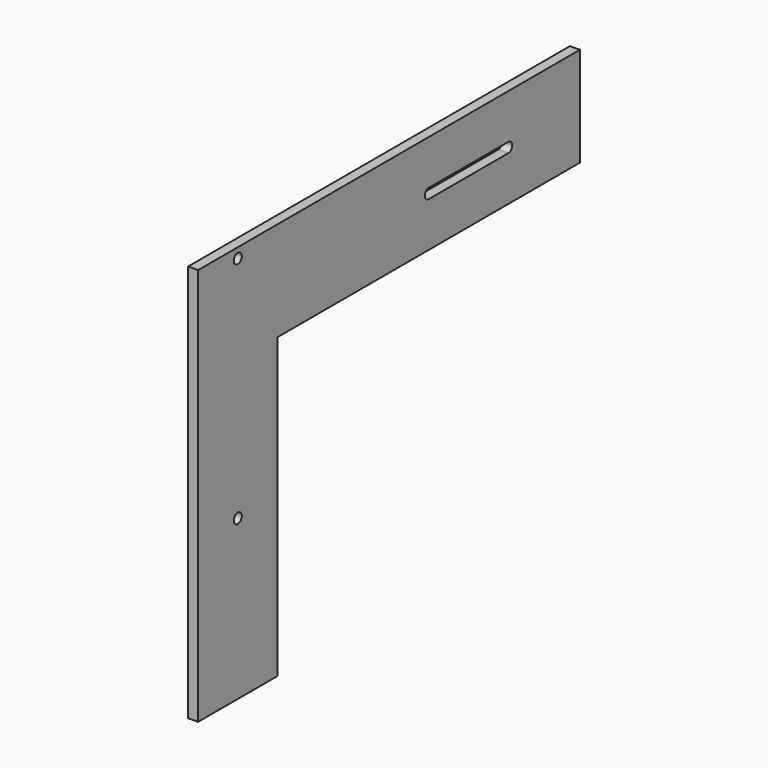
from build123d import *

# Parameters (mm, degrees)
F0_R     = 5
F1_DEPTH = 10


with BuildPart() as f1:
    # F0 (on Right) → F1 (new body)
    with BuildSketch(Plane.YZ):
        Polygon((-217.90644, 125.833333), (-217.90644, -274.166667), (-117.90644, -274.166667), (-117.90644, 25.833333), (262.09356, 25.833333), (262.09356, 125.833333), align=None)
        with Locations((-167.90644, -114.166667)):
            Circle(F0_R, mode=Mode.SUBTRACT)
        with Locations((-167.90644, 115.833333)):
            Circle(F0_R, mode=Mode.SUBTRACT)
        with BuildLine():
            ThreePointArc((172.09356, 80.833333), (177.09356, 75.833333), (172.09356, 70.833333))
            Line((172.09356, 70.833333), (72.09356, 70.833333))
            ThreePointArc((72.09356, 70.833333), (67.09356, 75.833333), (72.09356, 80.833333))
            Line((72.09356, 80.833333), (172.09356, 80.833333))
        make_face(mode=Mode.SUBTRACT)
    extrude(amount=F1_DEPTH)


solid = f1.part
